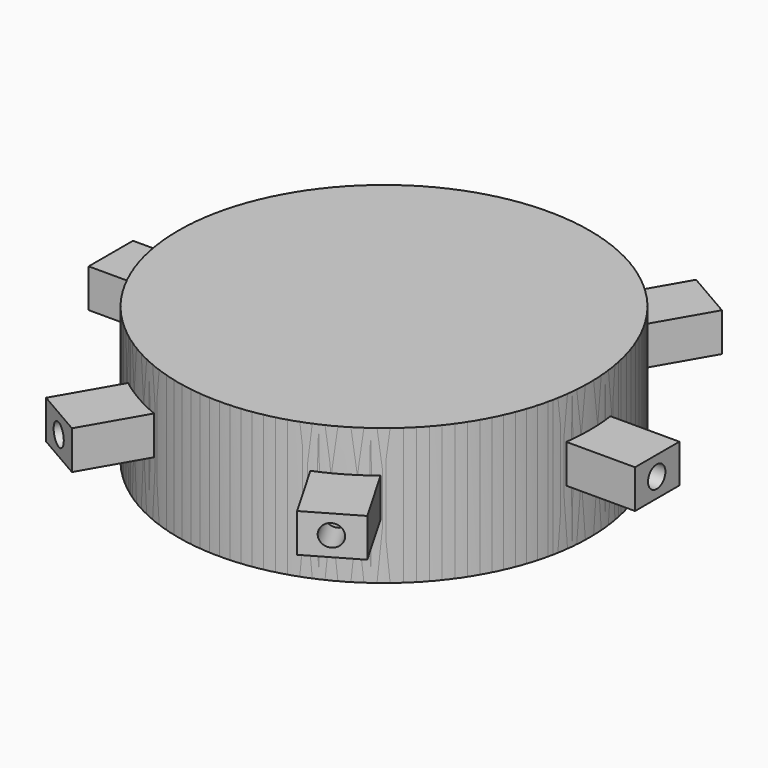
from build123d import *

# Parameters (mm, degrees)
F0_R     = 38.326322
F1_DEPTH = 25.4
F2_W     = 10.323871
F2_H     = 7.181824
F3_DEPTH = 50.8
F4_R     = 2.023003
F5_DEPTH = 6.35
F6_COUNT = 6


with BuildPart() as f1:
    # F0 (on Top) → F1 (new body)
    with BuildSketch(Plane.XY):
        Circle(F0_R)
    extrude(amount=F1_DEPTH)

    # F2 (on Right) → F3 (join)
    with BuildSketch(Plane.YZ):
        with Locations((0.112216, 14.026999)):
            Rectangle(F2_W, F2_H)
    extrude(amount=F3_DEPTH)

    # F4 (on face) → F5 (cut)
    with BuildSketch(Plane.YZ.offset(50.8)):
        with Locations((0, 14.026999)):
            Circle(F4_R)
    extrude(amount=-F5_DEPTH, mode=Mode.SUBTRACT)


with BuildPart() as f6_1:
    # F6: instance of F1
    add(f1.part.rotate(Axis((0, 0, 25.4), (0, 0, 1)), 1 * 360 / F6_COUNT))


with BuildPart() as f6_2:
    # F6: instance of F1
    add(f1.part.rotate(Axis((0, 0, 25.4), (0, 0, 1)), 2 * 360 / F6_COUNT))


with BuildPart() as f6_3:
    # F6: instance of F1
    add(f1.part.rotate(Axis((0, 0, 25.4), (0, 0, 1)), 3 * 360 / F6_COUNT))


with BuildPart() as f6_4:
    # F6: instance of F1
    add(f1.part.rotate(Axis((0, 0, 25.4), (0, 0, 1)), 4 * 360 / F6_COUNT))


with BuildPart() as f6_5:
    # F6: instance of F1
    add(f1.part.rotate(Axis((0, 0, 25.4), (0, 0, 1)), 5 * 360 / F6_COUNT))


solid = Compound([f1.part, f6_1.part, f6_2.part, f6_3.part, f6_4.part, f6_5.part])
